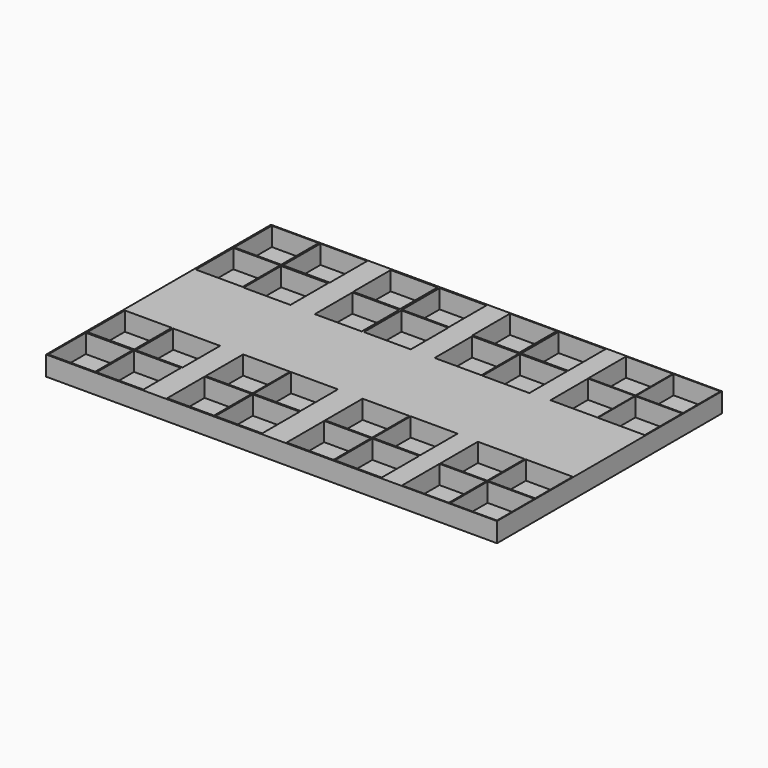
from build123d import *

# Parameters (mm, degrees)
F0_W      = 11550
F0_H      = 7200
F1_DEPTH  = 500
F2_W      = 1200
F2_H      = 1200
F3_DEPTH  = 480
F4_W      = 1200
F4_H      = 1200
F5_DEPTH  = 480
F6_W      = 1200
F6_H      = 1200
F7_DEPTH  = 480
F8_W      = 1200
F8_H      = 1200
F9_DEPTH  = 480
F10_W     = 1200
F10_H     = 1200
F11_DEPTH = 480
F12_W     = 1200
F12_H     = 1200
F13_DEPTH = 480
F14_W     = 1200
F14_H     = 1200
F15_DEPTH = 480
F16_W     = 1200
F16_H     = 1200
F17_DEPTH = 480
F18_W     = 1200
F18_H     = 1200
F19_DEPTH = 480
F20_W     = 1200
F20_H     = 1200
F21_DEPTH = 480
F22_W     = 1200
F22_H     = 1200
F23_DEPTH = 480
F24_W     = 1200
F24_H     = 1200
F25_DEPTH = 480
F26_W     = 1200
F26_H     = 1200
F27_DEPTH = 480
F28_W     = 1200
F28_H     = 1200
F29_DEPTH = 480
F30_W     = 1200
F30_H     = 1200
F31_DEPTH = 480
F32_W     = 1200
F32_H     = 1200
F33_DEPTH = 480
F34_W     = 1200
F34_H     = 1200
F35_DEPTH = 480
F36_W     = 1200
F36_H     = 1200
F37_DEPTH = 480
F38_W     = 1200
F38_H     = 1200
F39_DEPTH = 480
F40_W     = 1200
F40_H     = 1200
F41_DEPTH = 480
F42_W     = 1200
F42_H     = 1200
F43_DEPTH = 480
F44_W     = 1200
F44_H     = 1200
F45_DEPTH = 480
F46_W     = 1200
F46_H     = 1200
F47_DEPTH = 480
F48_W     = 1200
F48_H     = 1200
F49_DEPTH = 480
F50_W     = 1200
F50_H     = 1200
F51_DEPTH = 480
F52_W     = 1200
F52_H     = 1200
F53_DEPTH = 480
F54_W     = 1200
F54_H     = 1200
F55_DEPTH = 480
F56_W     = 1200
F56_H     = 1200
F57_DEPTH = 480
F58_W     = 1200
F58_H     = 1200
F59_DEPTH = 480
F60_W     = 1200
F60_H     = 1200
F61_DEPTH = 480
F62_W     = 1200
F62_H     = 1200
F63_DEPTH = 480
F64_W     = 1200
F64_H     = 1200
F65_DEPTH = 480


with BuildPart() as f1:
    # F0 (on Top) → F1 (new body)
    with BuildSketch(Plane.XY):
        with Locations((1524.740228, -657.499954)):
            Rectangle(F0_W, F0_H)
    extrude(amount=-F1_DEPTH)

    # F2 (on Top) → F3 (cut)
    with BuildSketch(Plane.XY):
        with Locations((-3610.088944, 2318.501111)):
            Rectangle(F2_W, F2_H)
    extrude(amount=-F3_DEPTH, mode=Mode.SUBTRACT)

    # F4 (on Top) → F5 (cut)
    with BuildSketch(Plane.XY):
        with Locations((-2365.314484, 2320.040209)):
            Rectangle(F4_W, F4_H)
    extrude(amount=-F5_DEPTH, mode=Mode.SUBTRACT)

    # F6 (on Top) → F7 (cut)
    with BuildSketch(Plane.XY):
        with Locations((-3610.101614, 1085.907519)):
            Rectangle(F6_W, F6_H)
    extrude(amount=-F7_DEPTH, mode=Mode.SUBTRACT)

    # F8 (on Top) → F9 (cut)
    with BuildSketch(Plane.XY):
        with Locations((-2375.65726, 1073.141722)):
            Rectangle(F8_W, F8_H)
    extrude(amount=-F9_DEPTH, mode=Mode.SUBTRACT)

    # F10 (on Top) → F11 (cut)
    with BuildSketch(Plane.XY):
        with Locations((-3618.7011, -3625.402108)):
            Rectangle(F10_W, F10_H)
    extrude(amount=-F11_DEPTH, mode=Mode.SUBTRACT)

    # F12 (on Top) → F13 (cut)
    with BuildSketch(Plane.XY):
        with Locations((-3611.342549, -2382.615124)):
            Rectangle(F12_W, F12_H)
    extrude(amount=-F13_DEPTH, mode=Mode.SUBTRACT)

    # F14 (on Top) → F15 (cut)
    with BuildSketch(Plane.XY):
        with Locations((-2367.779791, -2389.58588)):
            Rectangle(F14_W, F14_H)
    extrude(amount=-F15_DEPTH, mode=Mode.SUBTRACT)

    # F16 (on Top) → F17 (cut)
    with BuildSketch(Plane.XY):
        with Locations((-2382.496297, -3625.661176)):
            Rectangle(F16_W, F16_H)
    extrude(amount=-F17_DEPTH, mode=Mode.SUBTRACT)

    # F18 (on Top) → F19 (cut)
    with BuildSketch(Plane.XY):
        with Locations((6679.53229, 2322.080213)):
            Rectangle(F18_W, F18_H)
    extrude(amount=-F19_DEPTH, mode=Mode.SUBTRACT)

    # F20 (on Top) → F21 (cut)
    with BuildSketch(Plane.XY):
        with Locations((5460.022211, 2322.924475)):
            Rectangle(F20_W, F20_H)
    extrude(amount=-F21_DEPTH, mode=Mode.SUBTRACT)

    # F22 (on Top) → F23 (cut)
    with BuildSketch(Plane.XY):
        with Locations((5463.478565, 1099.988848)):
            Rectangle(F22_W, F22_H)
    extrude(amount=-F23_DEPTH, mode=Mode.SUBTRACT)

    # F24 (on Top) → F25 (cut)
    with BuildSketch(Plane.XY):
        with Locations((6679.00184, 1097.62156)):
            Rectangle(F24_W, F24_H)
    extrude(amount=-F25_DEPTH, mode=Mode.SUBTRACT)

    # F26 (on Top) → F27 (cut)
    with BuildSketch(Plane.XY):
        with Locations((6681.997538, -3637.25922)):
            Rectangle(F26_W, F26_H)
    extrude(amount=-F27_DEPTH, mode=Mode.SUBTRACT)

    # F28 (on Top) → F29 (cut)
    with BuildSketch(Plane.XY):
        with Locations((6679.802414, -2410.012782)):
            Rectangle(F28_W, F28_H)
    extrude(amount=-F29_DEPTH, mode=Mode.SUBTRACT)

    # F30 (on Top) → F31 (cut)
    with BuildSketch(Plane.XY):
        with Locations((5451.711178, -2411.595209)):
            Rectangle(F30_W, F30_H)
    extrude(amount=-F31_DEPTH, mode=Mode.SUBTRACT)

    # F32 (on Top) → F33 (cut)
    with BuildSketch(Plane.XY):
        with Locations((5450.857043, -3638.858795)):
            Rectangle(F32_W, F32_H)
    extrude(amount=-F33_DEPTH, mode=Mode.SUBTRACT)

    # F34 (on Top) → F35 (cut)
    with BuildSketch(Plane.XY):
        with Locations((-553.716697, 2304.110462)):
            Rectangle(F34_W, F34_H)
    extrude(amount=-F35_DEPTH, mode=Mode.SUBTRACT)

    # F36 (on Top) → F37 (cut)
    with BuildSketch(Plane.XY):
        with Locations((-546.182074, 1066.725278)):
            Rectangle(F36_W, F36_H)
    extrude(amount=-F37_DEPTH, mode=Mode.SUBTRACT)

    # F38 (on Top) → F39 (cut)
    with BuildSketch(Plane.XY):
        with Locations((706.118032, 1072.951901)):
            Rectangle(F38_W, F38_H)
    extrude(amount=-F39_DEPTH, mode=Mode.SUBTRACT)

    # F40 (on Top) → F41 (cut)
    with BuildSketch(Plane.XY):
        with Locations((698.439906, 2305.221796)):
            Rectangle(F40_W, F40_H)
    extrude(amount=-F41_DEPTH, mode=Mode.SUBTRACT)

    # F42 (on Top) → F43 (cut)
    with BuildSketch(Plane.XY):
        with Locations((2488.661938, 2320.291221)):
            Rectangle(F42_W, F42_H)
    extrude(amount=-F43_DEPTH, mode=Mode.SUBTRACT)

    # F44 (on Top) → F45 (cut)
    with BuildSketch(Plane.XY):
        with Locations((2509.397545, 1081.330076)):
            Rectangle(F44_W, F44_H)
    extrude(amount=-F45_DEPTH, mode=Mode.SUBTRACT)

    # F46 (on Top) → F47 (cut)
    with BuildSketch(Plane.XY):
        with Locations((3740.82003, 2315.965354)):
            Rectangle(F46_W, F46_H)
    extrude(amount=-F47_DEPTH, mode=Mode.SUBTRACT)

    # F48 (on Top) → F49 (cut)
    with BuildSketch(Plane.XY):
        with Locations((3739.91824, 1077.040359)):
            Rectangle(F48_W, F48_H)
    extrude(amount=-F49_DEPTH, mode=Mode.SUBTRACT)

    # F50 (on Top) → F51 (cut)
    with BuildSketch(Plane.XY):
        with Locations((-576.653138, -2390.051168)):
            Rectangle(F50_W, F50_H)
    extrude(amount=-F51_DEPTH, mode=Mode.SUBTRACT)

    # F52 (on Top) → F53 (cut)
    with BuildSketch(Plane.XY):
        with Locations((-577.332392, -3623.246563)):
            Rectangle(F52_W, F52_H)
    extrude(amount=-F53_DEPTH, mode=Mode.SUBTRACT)

    # F54 (on Top) → F55 (cut)
    with BuildSketch(Plane.XY):
        with Locations((649.510191, -2388.823032)):
            Rectangle(F54_W, F54_H)
    extrude(amount=-F55_DEPTH, mode=Mode.SUBTRACT)

    # F56 (on Top) → F57 (cut)
    with BuildSketch(Plane.XY):
        with Locations((658.512962, -3624.73762)):
            Rectangle(F56_W, F56_H)
    extrude(amount=-F57_DEPTH, mode=Mode.SUBTRACT)

    # F58 (on Top) → F59 (cut)
    with BuildSketch(Plane.XY):
        with Locations((2487.591028, -2395.85931)):
            Rectangle(F58_W, F58_H)
    extrude(amount=-F59_DEPTH, mode=Mode.SUBTRACT)

    # F60 (on Top) → F61 (cut)
    with BuildSketch(Plane.XY):
        with Locations((2488.064765, -3627.817988)):
            Rectangle(F60_W, F60_H)
    extrude(amount=-F61_DEPTH, mode=Mode.SUBTRACT)

    # F62 (on Top) → F63 (cut)
    with BuildSketch(Plane.XY):
        with Locations((3716.927897, -2391.622365)):
            Rectangle(F62_W, F62_H)
    extrude(amount=-F63_DEPTH, mode=Mode.SUBTRACT)

    # F64 (on Top) → F65 (cut)
    with BuildSketch(Plane.XY):
        with Locations((3720.396776, -3625.568748)):
            Rectangle(F64_W, F64_H)
    extrude(amount=-F65_DEPTH, mode=Mode.SUBTRACT)


solid = f1.part
